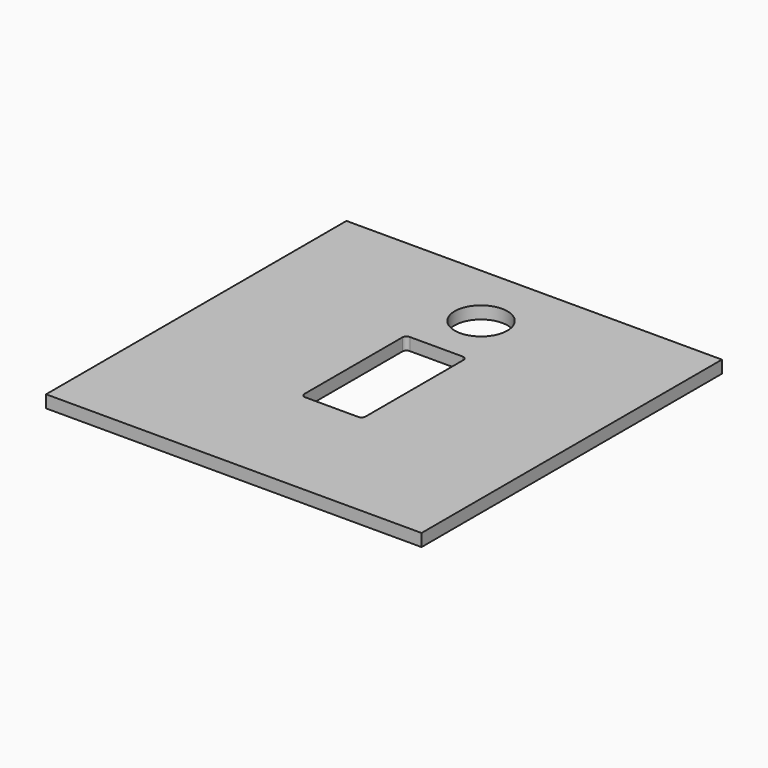
from build123d import *

# Parameters (mm, degrees)
F0_W     = 181
F0_H     = 181
F0_R     = 12.7
F1_DEPTH = 6


with BuildPart() as f1:
    # F0 (on Top) → F1 (new body)
    with BuildSketch(Plane.XY):
        Rectangle(F0_W, F0_H)
        with BuildLine():
            Line((-12.75, 31.5), (12.75, 31.5))
            ThreePointArc((12.75, 31.5), (14.164214, 30.914214), (14.75, 29.5))
            Line((14.75, 29.5), (14.75, -29.5))
            ThreePointArc((14.75, -29.5), (14.164214, -30.914214), (12.75, -31.5))
            Line((12.75, -31.5), (-12.75, -31.5))
            ThreePointArc((-12.75, -31.5), (-14.164214, -30.914214), (-14.75, -29.5))
            Line((-14.75, -29.5), (-14.75, 29.5))
            ThreePointArc((-14.75, 29.5), (-14.164214, 30.914214), (-12.75, 31.5))
        make_face(mode=Mode.SUBTRACT)
        with Locations((0, 58.476925)):
            Circle(F0_R, mode=Mode.SUBTRACT)
    extrude(amount=F1_DEPTH)


solid = f1.part
